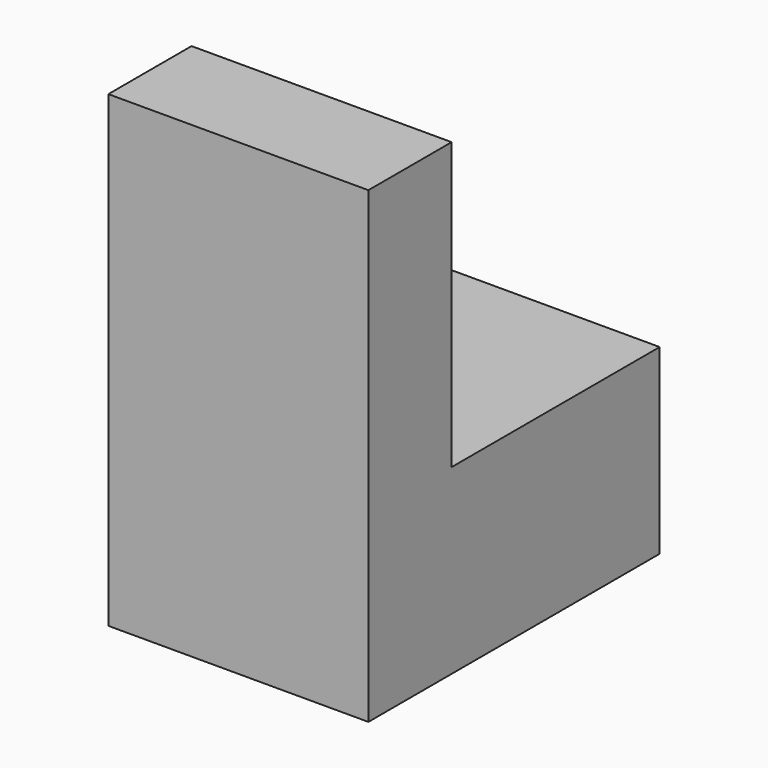
from build123d import *

# Parameters (mm, degrees)
F0_W     = 500
F0_H     = 350
F1_DEPTH = 500


with BuildPart() as f1:
    # F0 (on Right) → F1 (new body)
    with BuildSketch(Plane.YZ):
        Rectangle(F0_W, F0_H)
        Polygon((-450, -175), (-250, -175), (-250, 175), (-250, 725), (-450, 725), align=None)
    extrude(amount=F1_DEPTH)


solid = f1.part
